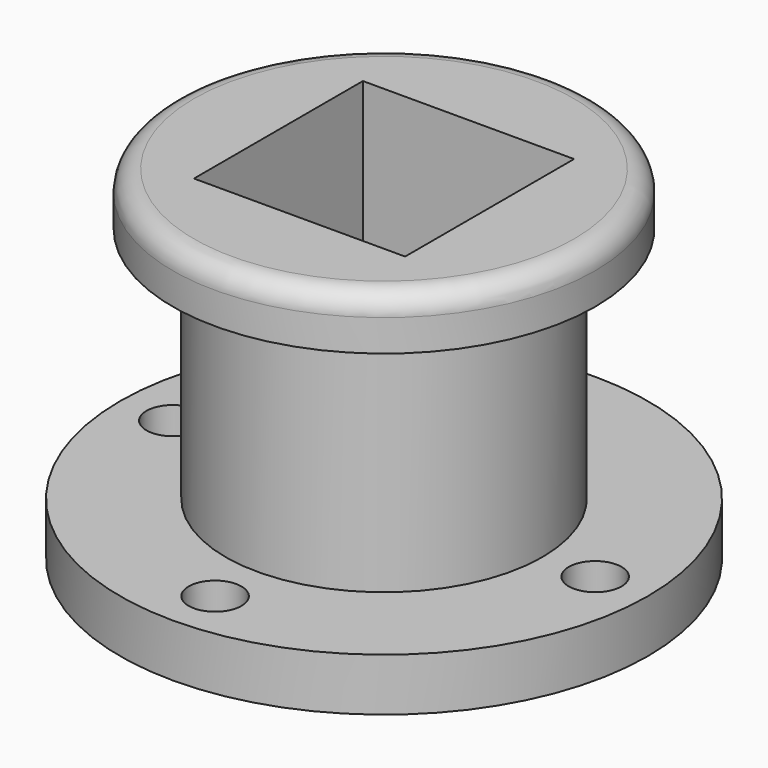
from build123d import *

# Parameters (mm, degrees)
F0_R          = 38.1
F1_DEPTH      = 57.15
F2_R          = 50.8
F3_DEPTH      = 12.7
F4_R          = 5.08
F6_START      = -57.15
F5_R          = 63.5
F6_DEPTH      = 12.7
F7_W          = 50.8
F7_H          = 50.8
F8_DEPTH      = 25.4
F8_DEPTH_BACK = 109.728
F10_START     = -38.354
F9_R          = 6.35
F10_DEPTH     = 65.532


with BuildPart() as f1:
    # F0 (on Top) → F1 (new body)
    with BuildSketch(Plane.XY):
        Circle(F0_R)
    extrude(amount=-F1_DEPTH)

    # F2 (on Top) → F3 (join)
    with BuildSketch(Plane.XY):
        Circle(F2_R)
    extrude(amount=F3_DEPTH)

    # F4
    f4_edges = [f1.edges().sort_by_distance(p)[0] for p in [
        (-50.8, 0, 12.7),
    ]]
    fillet(f4_edges, radius=F4_R)

    # F5 (on Top) → F6 (join)
    with BuildSketch(Plane.XY.offset(F6_START)):
        Circle(F5_R)
    extrude(amount=-F6_DEPTH)

    # F7 (on Top) → F8 (cut, two sides)
    with BuildSketch(Plane.XY) as f8_sk:
        Rectangle(F7_W, F7_H)
    extrude(amount=F8_DEPTH, mode=Mode.SUBTRACT)
    extrude(f8_sk.sketch, amount=-F8_DEPTH_BACK, mode=Mode.SUBTRACT)

    # F9 (on Top) → F10 (cut)
    with BuildSketch(Plane.XY.offset(F10_START)):
        with Locations((0, -50.8)):
            Circle(F9_R)
        with Locations((-50.8, 0)):
            Circle(F9_R)
        with Locations((50.8, 0)):
            Circle(F9_R)
        with Locations((0, 50.8)):
            Circle(F9_R)
    extrude(amount=-F10_DEPTH, mode=Mode.SUBTRACT)


solid = f1.part
